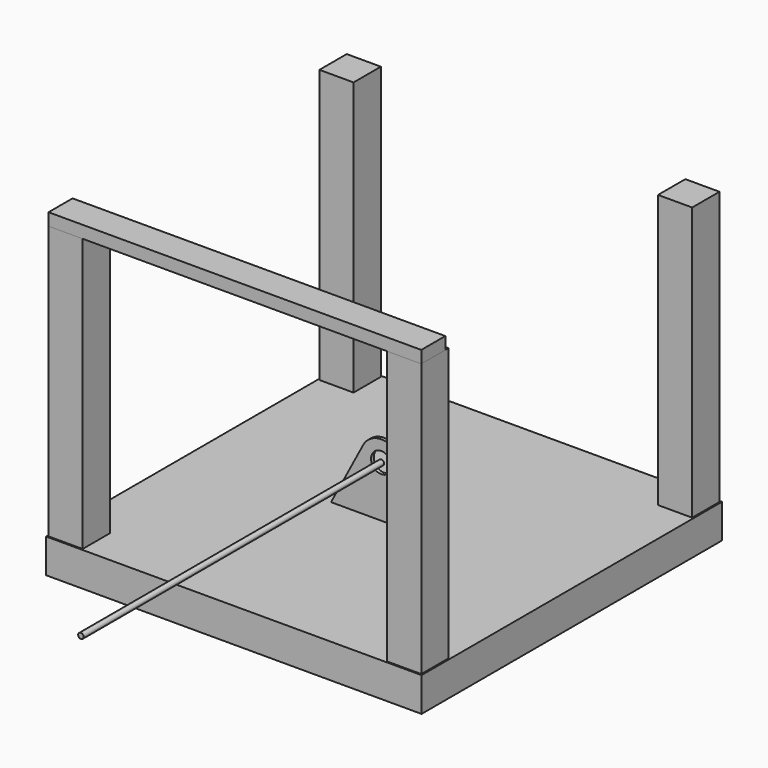
from build123d import *

# Parameters (mm, degrees)
F0_W     = 550
F0_H     = 550
F0_W_2   = 50
F0_H_2   = 50
F1_DEPTH = 50
F2_DEPTH = 450
F3_W     = 44
F3_H     = 18
F4_DEPTH = 546
F5_R     = 15
F6_DEPTH = 5
F7_R     = 4
F8_DEPTH = 550


with BuildPart() as f1:
    # F0 (on Top) → F1 (new body)
    with BuildSketch(Plane.XY):
        Rectangle(F0_W, F0_H)
        with Locations((-248, -248)):
            Rectangle(F0_W_2, F0_H_2, mode=Mode.SUBTRACT)
        with Locations((248, -248)):
            Rectangle(F0_W_2, F0_H_2, mode=Mode.SUBTRACT)
        with Locations((-248, 248)):
            Rectangle(F0_W_2, F0_H_2, mode=Mode.SUBTRACT)
        with Locations((248, 248)):
            Rectangle(F0_W_2, F0_H_2, mode=Mode.SUBTRACT)
    extrude(amount=F1_DEPTH)

    # F0 (on Top) → F2 (join)
    with BuildSketch(Plane.XY):
        with Locations((-248, 248)):
            Rectangle(F0_W_2, F0_H_2)
        with Locations((248, 248)):
            Rectangle(F0_W_2, F0_H_2)
        with Locations((248, -248)):
            Rectangle(F0_W_2, F0_H_2)
        with Locations((-248, -248)):
            Rectangle(F0_W_2, F0_H_2)
    extrude(amount=F2_DEPTH)


with BuildPart() as f4:
    # F3 (on face) → F4 (new body)
    with BuildSketch(Plane.YZ.offset(273)):
        with Locations((-251, 459)):
            Rectangle(F3_W, F3_H)
    extrude(amount=-F4_DEPTH)


with BuildPart() as f6:
    # F5 (on Front) → F6 (new body)
    with BuildSketch(Plane.XZ):
        with BuildLine():
            Line((-26.523198, 139.018558), (-97.673445, 4.401856))
            ThreePointArc((-97.673445, 4.401856), (-97.590714, 1.451705), (-95.021125, 0))
            Line((-95.021125, 0), (-76.974022, 0))
            ThreePointArc((-76.974022, 0), (-75.061291, 0.184631), (-73.219191, 0.731707))
            ThreePointArc((-73.219191, 0.731707), (0, 15), (73.219191, 0.731707))
            ThreePointArc((73.219191, 0.731707), (75.061291, 0.184631), (76.974022, 0))
            Line((76.974022, 0), (95.021125, 0))
            ThreePointArc((95.021125, 0), (97.590714, 1.451705), (97.673445, 4.401856))
            Line((97.673445, 4.401856), (26.523198, 139.018558))
            ThreePointArc((26.523198, 139.018558), (0, 155), (-26.523198, 139.018558))
        make_face()
        with Locations((0, 125)):
            Circle(F5_R, mode=Mode.SUBTRACT)
    extrude(amount=F6_DEPTH)


with BuildPart() as f8:
    # F7 (on face) → F8 (new body)
    with BuildSketch(Plane.XZ.offset(5)):
        with Locations((0, 125)):
            Circle(F7_R)
    extrude(amount=F8_DEPTH)


solid = Compound([f1.part, f4.part, f6.part, f8.part])
